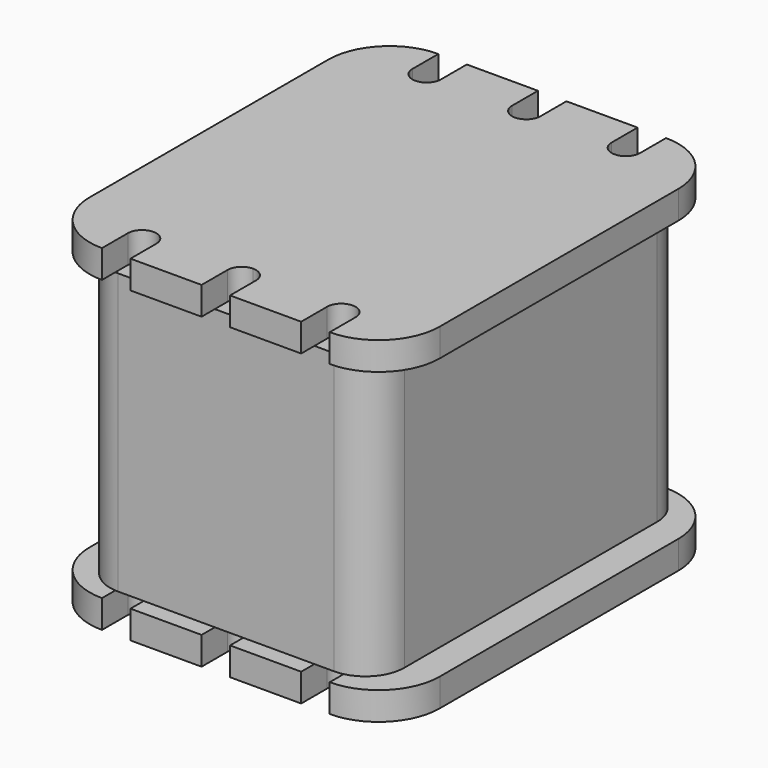
from build123d import *

# Parameters (mm, degrees)
PAD_DEPTH                  = 1
PAD_MIRRORED_2_DEPTH       = 1
PAD001_DEPTH               = 10
PAD002_DEPTH               = 1
PAD002_MIRRORED002_2_DEPTH = 1


with BuildPart() as body:
    # Sketch → Pad (new body)
    with BuildSketch(Plane.XY):
        with BuildLine():
            Line((-6.2484, 0), (-6.2484, 5.3213))
            ThreePointArc((-4.064, 7.5057), (-5.608604, 6.865904), (-6.2484, 5.3213))
            Line((-4.064, 7.5057), (-4.064, 6.35))
            ThreePointArc((-4.064, 6.35), (-3.556, 5.842), (-3.048, 6.35))
            Line((-3.048, 6.35), (-3.048, 7.5057))
            Line((-3.048, 7.5057), (-0.508, 7.5057))
            Line((-0.508, 7.5057), (-0.508, 6.35))
            ThreePointArc((-0.508, 6.35), (-0.35921, 5.99079), (0, 5.842))
            Line((0, 5.842), (0, 0))
            Line((-6.2484, 0), (0, 0))
        make_face()
    pad = extrude(amount=PAD_DEPTH)

    # Sketch Mirrored 2 → Pad Mirrored 2 (add)
    with BuildSketch(Plane(origin=(0, 0, 0), x_dir=(-1, 0, 0), z_dir=(0, 0, -1))):
        with BuildLine():
            Line((-6.2484, 0), (-6.2484, 5.3213))
            ThreePointArc((-4.064, 7.5057), (-5.608604, 6.865904), (-6.2484, 5.3213))
            Line((-4.064, 7.5057), (-4.064, 6.35))
            ThreePointArc((-4.064, 6.35), (-3.556, 5.842), (-3.048, 6.35))
            Line((-3.048, 6.35), (-3.048, 7.5057))
            Line((-3.048, 7.5057), (-0.508, 7.5057))
            Line((-0.508, 7.5057), (-0.508, 6.35))
            ThreePointArc((-0.508, 6.35), (-0.35921, 5.99079), (0, 5.842))
            Line((0, 5.842), (0, 0))
            Line((-6.2484, 0), (0, 0))
        make_face()
    pad_mirrored_2 = extrude(amount=-PAD_MIRRORED_2_DEPTH)

    # Mirrored001: Pad, Pad Mirrored 2 across XZ
    add(pad.mirror(Plane.XZ))
    add(pad_mirrored_2.mirror(Plane.XZ))


with BuildPart() as body001:
    # Sketch001 (on Face1 of ShapeBinder) → Pad001 (new body)
    with BuildSketch(Plane.XY.offset(1)):
        with BuildLine():
            Line((-3.970166, -6.914917), (3.75419, -6.914917))
            ThreePointArc((3.75419, -6.914917), (4.736908, -6.507862), (5.143963, -5.525144))
            Line((5.143963, -5.525144), (5.143963, 5.747452))
            ThreePointArc((5.143963, 5.747452), (4.736908, 6.73017), (3.75419, 7.137225))
            Line((3.75419, 7.137225), (-3.970166, 7.137225))
            ThreePointArc((-3.970166, 7.137225), (-4.952884, 6.73017), (-5.359939, 5.747452))
            Line((-5.359939, 5.747452), (-5.359939, -5.525144))
            ThreePointArc((-5.359939, -5.525144), (-4.952884, -6.507862), (-3.970166, -6.914917))
        make_face()
    extrude(amount=PAD001_DEPTH)


with BuildPart() as body002:
    # Sketch002 (on Face1 of CopyPad001) → Pad002 (new body)
    with BuildSketch(Plane.XY.offset(11)):
        with BuildLine():
            Line((-6.2484, 0), (-6.2484, 5.3213))
            ThreePointArc((-4.064, 7.5057), (-5.608604, 6.865904), (-6.2484, 5.3213))
            Line((-4.064, 7.5057), (-4.064, 6.35))
            ThreePointArc((-4.064, 6.35), (-3.556, 5.842), (-3.048, 6.35))
            Line((-3.048, 6.35), (-3.048, 7.5057))
            Line((-3.048, 7.5057), (-0.508, 7.5057))
            Line((-0.508, 7.5057), (-0.508, 6.35))
            ThreePointArc((-0.508, 6.35), (-0.35921, 5.99079), (0, 5.842))
            Line((0, 5.842), (0, 0))
            Line((-6.2484, 0), (0, 0))
        make_face()
    pad002 = extrude(amount=PAD002_DEPTH)

    # Sketch002 Mirrored002 2 → Pad002 Mirrored002 2 (add)
    with BuildSketch(Plane(origin=(0, 0, 11), x_dir=(-1, 0, 0), z_dir=(0, 0, -1))):
        with BuildLine():
            Line((-6.2484, 0), (-6.2484, 5.3213))
            ThreePointArc((-4.064, 7.5057), (-5.608604, 6.865904), (-6.2484, 5.3213))
            Line((-4.064, 7.5057), (-4.064, 6.35))
            ThreePointArc((-4.064, 6.35), (-3.556, 5.842), (-3.048, 6.35))
            Line((-3.048, 6.35), (-3.048, 7.5057))
            Line((-3.048, 7.5057), (-0.508, 7.5057))
            Line((-0.508, 7.5057), (-0.508, 6.35))
            ThreePointArc((-0.508, 6.35), (-0.35921, 5.99079), (0, 5.842))
            Line((0, 5.842), (0, 0))
            Line((-6.2484, 0), (0, 0))
        make_face()
    pad002_mirrored002_2 = extrude(amount=-PAD002_MIRRORED002_2_DEPTH)

    # Mirrored003: Pad002, Pad002 Mirrored002 2 across XZ
    add(pad002.mirror(Plane.XZ))
    add(pad002_mirrored002_2.mirror(Plane.XZ))


solid = Compound([body.part, body001.part, body002.part])
